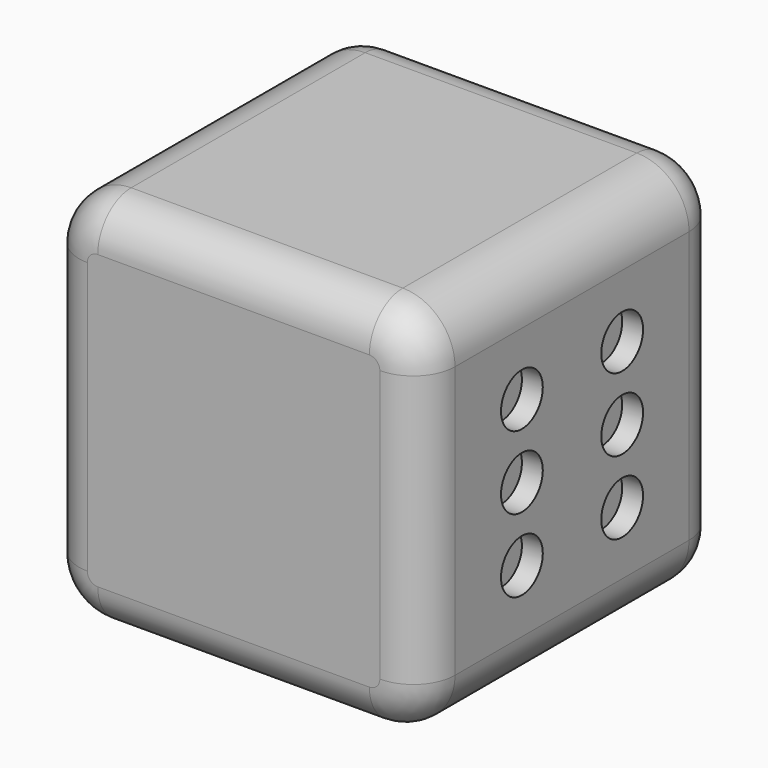
from build123d import *

# Parameters (mm, degrees)
F1_DEPTH = 22.86
F2_R     = 5.08
F3_R     = 3.175
F4_DEPTH = 2.54
F5_R     = 3.175
F6_DEPTH = 2.54


with BuildPart() as f1:
    # F0 (on Front) → F1 (new body, symmetric)
    with BuildSketch(Plane.XZ):
        with BuildLine():
            Line((20.637052, 16.137419), (-12.382948, 16.137419))
            ThreePointArc((-12.382948, 16.137419), (-16.873076, 14.277547), (-18.732948, 9.787419))
            Line((-18.732948, 9.787419), (-18.732948, -23.232581))
            ThreePointArc((-18.732948, -23.232581), (-16.873076, -27.722709), (-12.382948, -29.582581))
            Line((-12.382948, -29.582581), (20.637052, -29.582581))
            ThreePointArc((20.637052, -29.582581), (25.12718, -27.722709), (26.987052, -23.232581))
            Line((26.987052, -23.232581), (26.987052, 9.787419))
            ThreePointArc((26.987052, 9.787419), (25.12718, 14.277547), (20.637052, 16.137419))
        make_face()
    extrude(amount=F1_DEPTH, both=True)

    # F2
    f2_edges = [f1.edges().sort_by_distance(p)[0] for p in [
        (4.127052, -22.86, 16.137419),
        (4.127052, 22.86, 16.137419),
    ]]
    fillet(f2_edges, radius=F2_R)

    # F3 (on face) → F4 (cut)
    with BuildSketch(Plane(origin=(-18.732948, 0, 0), x_dir=(0, -1, 0), z_dir=(-1, 0, 0))):
        with Locations((0, -6.722581)):
            Circle(F3_R)
    extrude(amount=-F4_DEPTH, mode=Mode.SUBTRACT)

    # F5 (on face) → F6 (cut)
    with BuildSketch(Plane.YZ.offset(26.987052)):
        with Locations((-7.62, 2.167419)):
            Circle(F5_R)
        with Locations((7.62, 2.167419)):
            Circle(F5_R)
        with Locations((7.62, -6.722581)):
            Circle(F5_R)
        with Locations((-7.62, -6.722581)):
            Circle(F5_R)
        with Locations((-7.62, -15.612581)):
            Circle(F5_R)
        with Locations((7.62, -15.612581)):
            Circle(F5_R)
    extrude(amount=-F6_DEPTH, mode=Mode.SUBTRACT)


solid = f1.part
